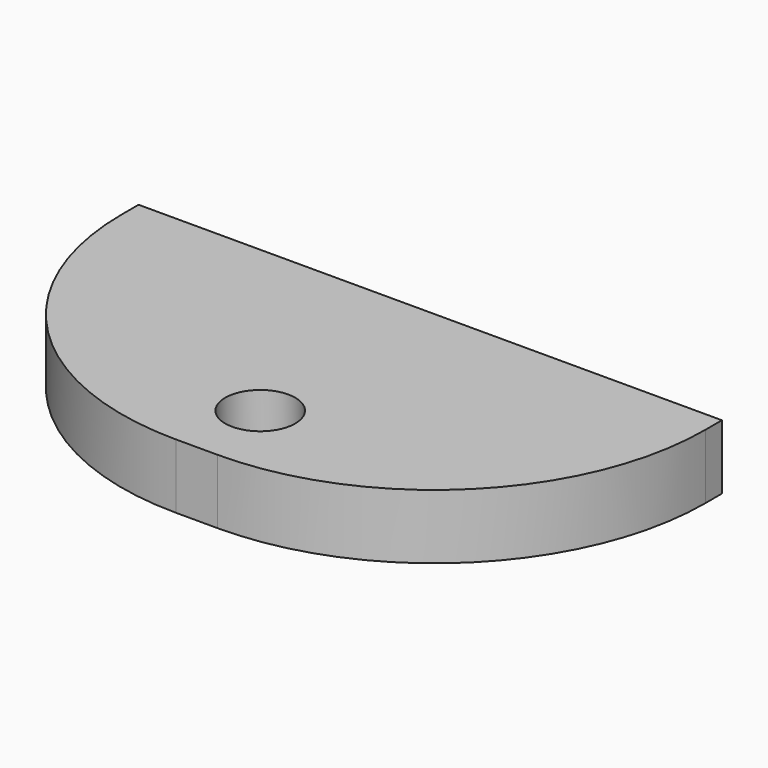
from build123d import *

# Parameters (mm, degrees)
BOX002_W        = 28
BOX002_H        = 14
BOX002_DEPTH    = 3.1
SKETCH017_R     = 1.68
POCKET009_DEPTH = 5
FILLET003_R     = 13


with BuildPart() as part:
    # Box002 → Box002 (new body)
    with BuildSketch(Plane(origin=(12, -13, 0), x_dir=(1, 0, 0), z_dir=(0, 0, 1))):
        with Locations((14, 7)):
            Rectangle(BOX002_W, BOX002_H)
    extrude(amount=BOX002_DEPTH)

    # Sketch017 → Pocket009 (cut)
    with BuildSketch(Plane(origin=(12, -13, 0), x_dir=(1, 0, 0), z_dir=(0, 0, -1))):
        with Locations((14, -3.8)):
            Circle(SKETCH017_R)
    extrude(amount=-POCKET009_DEPTH, mode=Mode.SUBTRACT)

    # Fillet003
    fillet003_edges = [part.edges().sort_by_distance(p)[0] for p in [
        (40, -13, 1.55),
        (12, -13, 1.55),
    ]]
    fillet(fillet003_edges, radius=FILLET003_R)


solid = part.part
